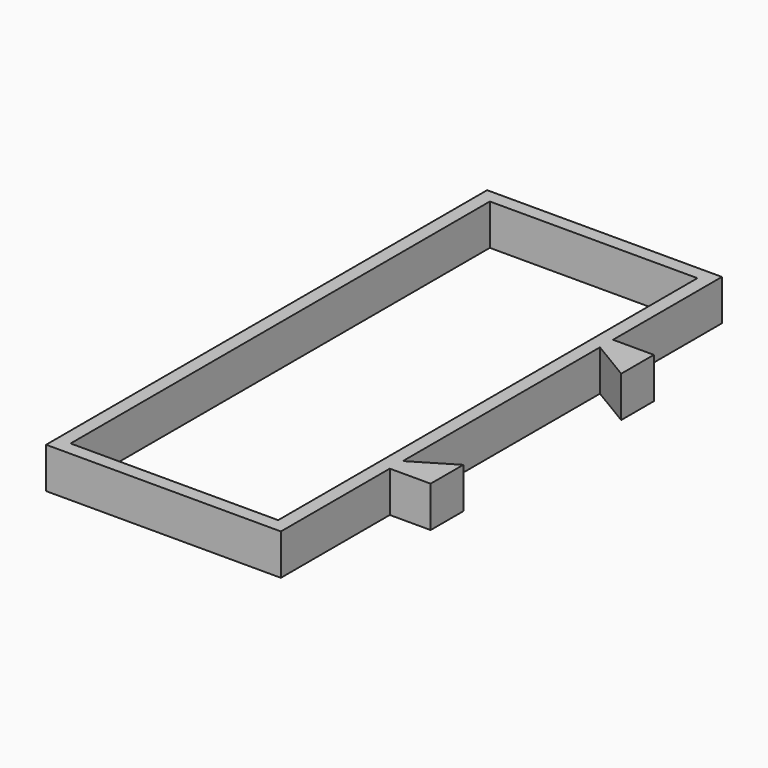
from build123d import *

# Parameters (mm, degrees)
F0_W     = 30.5
F0_H     = 77
F1_DEPTH = 6


with BuildPart() as f1:
    # F0 (on Top) → F1 (new body)
    with BuildSketch(Plane.XY):
        Polygon((17.25, -18.1), (17.25, -20.5), (23.25, -20.5), (23.25, -14.5), align=None)
        Polygon((-17.25, -40.5), (17.25, -40.5), (17.25, -20.5), (17.25, -18.1), (17.25, -11.055043), (17.25, 11.055043), (17.25, 18.1), (17.25, 20.5), (17.25, 40.5), (-17.25, 40.5), align=None)
        Rectangle(F0_W, F0_H, mode=Mode.SUBTRACT)
        Polygon((23.25, 20.5), (17.25, 20.5), (17.25, 18.1), (23.25, 14.5), align=None)
    extrude(amount=F1_DEPTH)


solid = f1.part
